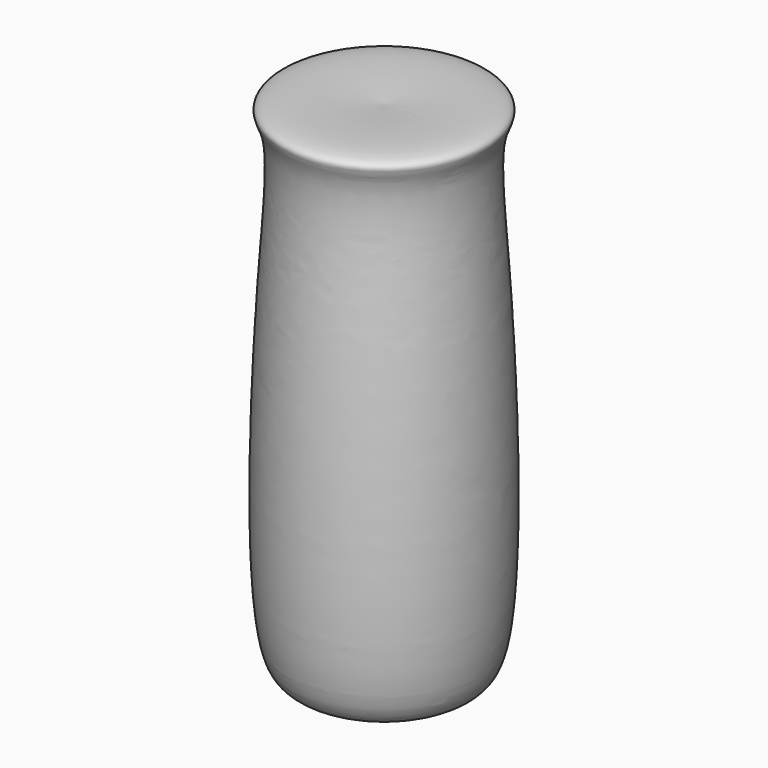
from build123d import *


with BuildPart() as f1:
    # F0 (on Front) → F1 (revolve)
    with BuildSketch(Plane.XZ):
        with BuildLine():
            add(Edge.make_bspline(
                [(0, 47.692310065), (4.4281920786, 47.9964459676), (10.7672683496, 48.4318247066), (8.2626585878, 45.1063463713), (9.6513898343, 32.6018066079), (10.5102518505, 3.259968839), (7.1673807264, -0.6618504861), (2.6057645865, -0.2406215916), (0, 0)],
                knots=[0, 0, 0, 0, 0.170953034, 0.2447238743, 0.4450824258, 0.7465876816, 0.8552414704, 1, 1, 1, 1], degree=3))
            Line((0, 47.692310065), (0, 0))
        make_face()
    revolve(axis=Axis((0, 0, 23.8461550325), (0, 0, -1)))


solid = f1.part
